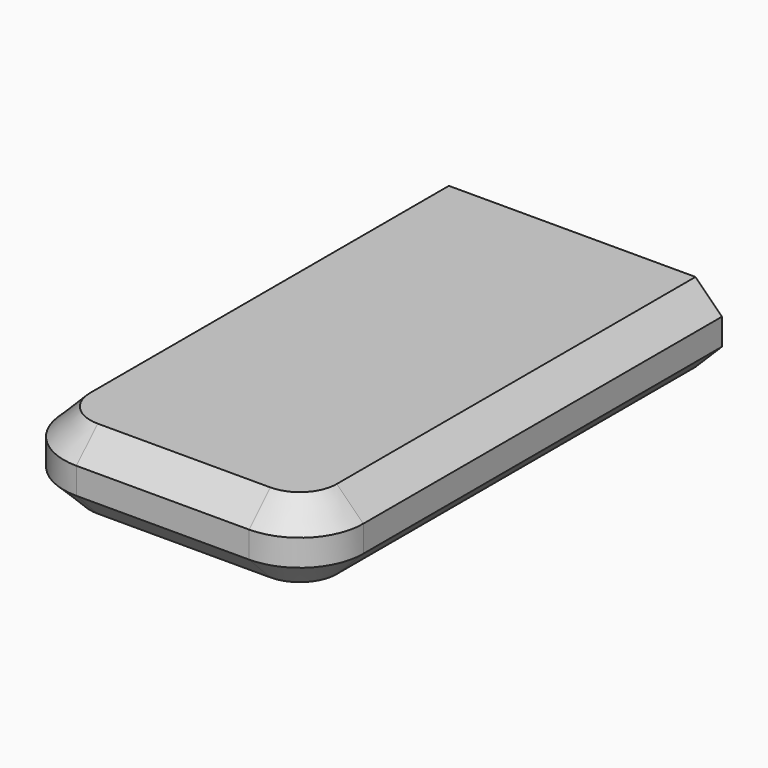
from build123d import *

# Parameters (mm, degrees)
F0_W     = 17
F0_H     = 4.5
F1_DEPTH = 29.05
F2_R     = 3.6
F3_SIZE  = 1.5


with BuildPart() as f1:
    # F0 (on Front) → F1 (new body)
    with BuildSketch(Plane.XZ):
        Rectangle(F0_W, F0_H)
    extrude(amount=F1_DEPTH)

    # F2
    f2_edges = [f1.edges().sort_by_distance(p)[0] for p in [
        (8.5, -29.05, 0),
        (-8.5, -29.05, 0),
    ]]
    fillet(f2_edges, radius=F2_R)

    # F3
    f3_edges = [f1.edges().sort_by_distance(p)[0] for p in [
        (8.5, -12.725, 2.25),
        (8.5, -12.725, -2.25),
        (-8.5, -12.725, 2.25),
        (-8.5, -12.725, -2.25),
        (0, -29.05, 2.25),
        (4.9, -29.05, 0),
        (-4.9, -29.05, 0),
        (0, -29.05, -2.25),
    ]]
    chamfer(f3_edges, length=F3_SIZE)


solid = f1.part
